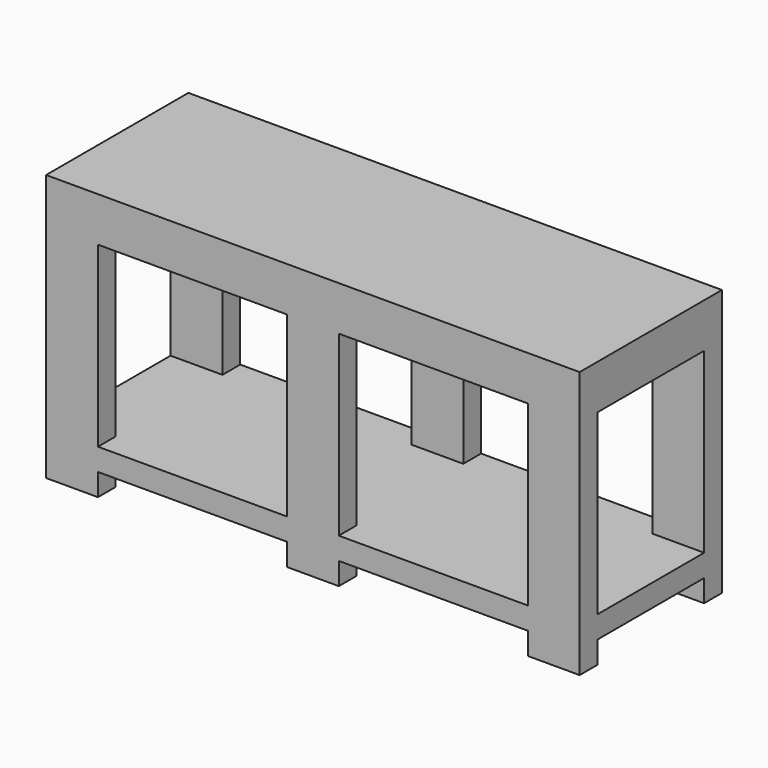
from build123d import *

# Parameters (mm, degrees)
F0_W     = 914.4
F0_H     = 304.8
F1_DEPTH = 457.2
F2_W     = 323.85
F2_H     = 304.8
F3_DEPTH = 304.801
F4_W     = 228.6
F4_H     = 304.8
F5_DEPTH = 914.401
F6_W     = 323.85
F6_H     = 38.1
F7_DEPTH = 304.801
F8_W     = 228.6
F8_H     = 38.1
F9_DEPTH = 914.401


with BuildPart() as f1:
    # F0 (on Top) → F1 (new body)
    with BuildSketch(Plane.XY):
        Rectangle(F0_W, F0_H)
    extrude(amount=F1_DEPTH)

    # F2 (on face) → F3 (cut, through all)
    with BuildSketch(Plane.XZ.offset(152.4)):
        with Locations((-206.375, 228.6)):
            Rectangle(F2_W, F2_H)
        with Locations((206.375, 228.6)):
            Rectangle(F2_W, F2_H)
    extrude(amount=-F3_DEPTH, mode=Mode.SUBTRACT)

    # F4 (on face) → F5 (cut, through all)
    with BuildSketch(Plane.YZ.offset(457.2)):
        with Locations((0, 228.6)):
            Rectangle(F4_W, F4_H)
    extrude(amount=-F5_DEPTH, mode=Mode.SUBTRACT)

    # F6 (on face) → F7 (cut, through all)
    with BuildSketch(Plane.XZ.offset(152.4)):
        with Locations((-206.375, 19.05)):
            Rectangle(F6_W, F6_H)
        with Locations((206.375, 19.05)):
            Rectangle(F6_W, F6_H)
    extrude(amount=-F7_DEPTH, mode=Mode.SUBTRACT)

    # F8 (on face) → F9 (cut, through all)
    with BuildSketch(Plane.YZ.offset(457.2)):
        with Locations((0, 19.05)):
            Rectangle(F8_W, F8_H)
    extrude(amount=-F9_DEPTH, mode=Mode.SUBTRACT)


solid = f1.part
